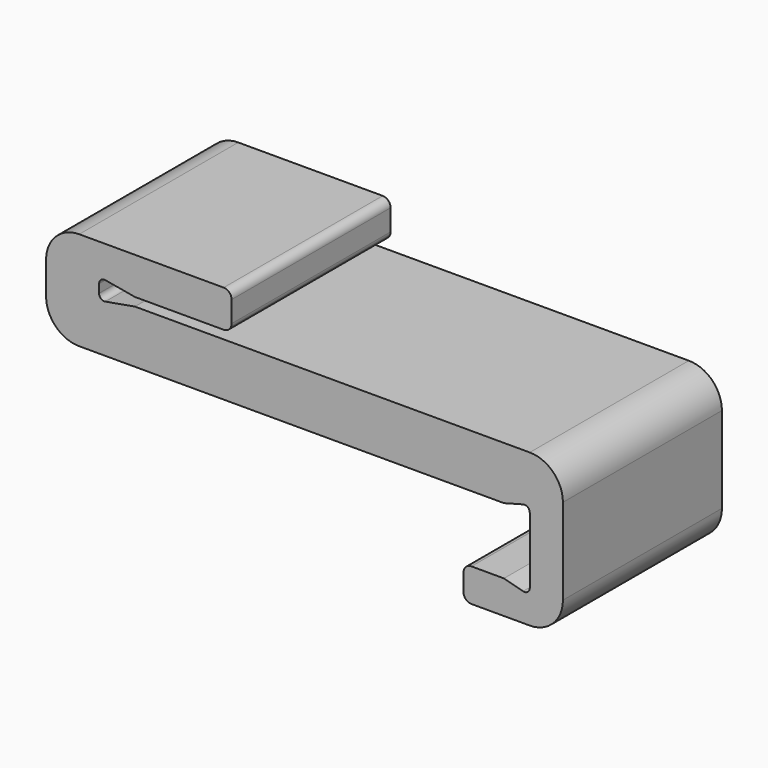
from build123d import *

# Parameters (mm, degrees)
F1_DEPTH = 19.05


with BuildPart() as f1:
    # F0 (on Front) → F1 (new body)
    with BuildSketch(Plane.XZ):
        with BuildLine():
            Line((3.433455, 0.8128), (11.938, 0.8128))
            ThreePointArc((11.938, 0.8128), (12.476815, 1.035985), (12.7, 1.5748))
            Line((12.7, 1.5748), (12.7, 3.6068))
            ThreePointArc((12.7, 3.6068), (12.476815, 4.145615), (11.938, 4.3688))
            Line((11.938, 4.3688), (-1.905, 4.3688))
            ThreePointArc((-1.905, 4.3688), (-4.150064, 3.438864), (-5.08, 1.1938))
            Line((-5.08, 1.1938), (-5.08, -1.905))
            ThreePointArc((-5.08, -1.905), (-4.150064, -4.150064), (-1.905, -5.08))
            Line((-1.905, -5.08), (38.804239, -5.08))
            Line((38.804239, -5.08), (40.63552, -4.58931))
            ThreePointArc((40.63552, -4.58931), (41.076251, -4.676977), (41.275, -5.08))
            Line((41.275, -5.08), (41.275, -11.43))
            ThreePointArc((41.275, -11.43), (41.076251, -11.833023), (40.63552, -11.92069))
            Line((40.63552, -11.92069), (38.804239, -11.43))
            Line((38.804239, -11.43), (35.687, -11.43))
            ThreePointArc((35.687, -11.43), (35.148185, -11.653185), (34.925, -12.192))
            Line((34.925, -12.192), (34.925, -13.843))
            ThreePointArc((34.925, -13.843), (35.148185, -14.381815), (35.687, -14.605))
            Line((35.687, -14.605), (41.275, -14.605))
            ThreePointArc((41.275, -14.605), (43.520064, -13.675064), (44.45, -11.43))
            Line((44.45, -11.43), (44.45, -3.175))
            ThreePointArc((44.45, -3.175), (43.520064, -0.929936), (41.275, 0))
            Line((41.275, 0), (3.433455, 0))
            Line((3.433455, 0), (0.596213, -0.500282))
            ThreePointArc((0.596213, -0.500282), (0.181464, -0.389151), (0, 0))
            Line((0, 0), (0, 0.8128))
            ThreePointArc((0, 0.8128), (0.181464, 1.201951), (0.596213, 1.313082))
            Line((0.596213, 1.313082), (3.433455, 0.8128))
        make_face()
    extrude(amount=F1_DEPTH)


solid = f1.part
